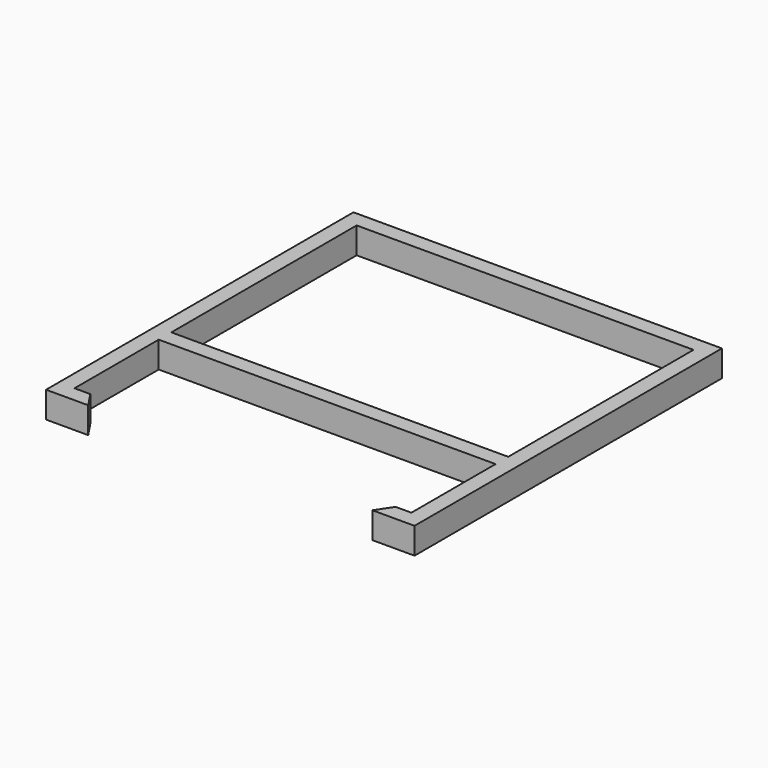
from build123d import *

# Parameters (mm, degrees)
F0_W     = 320
F0_H     = 220
F1_DEPTH = 25


with BuildPart() as f1:
    # F0 (on Top) → F1 (new body)
    with BuildSketch(Plane.XY):
        Polygon((-145, -225), (-160, -225), (-160, -125), (160, -125), (160, -225), (145, -225), (135, -240), (175, -240), (175, 125), (-175, 125), (-175, -240), (-135, -240), align=None)
        Rectangle(F0_W, F0_H, mode=Mode.SUBTRACT)
    extrude(amount=F1_DEPTH)


solid = f1.part
